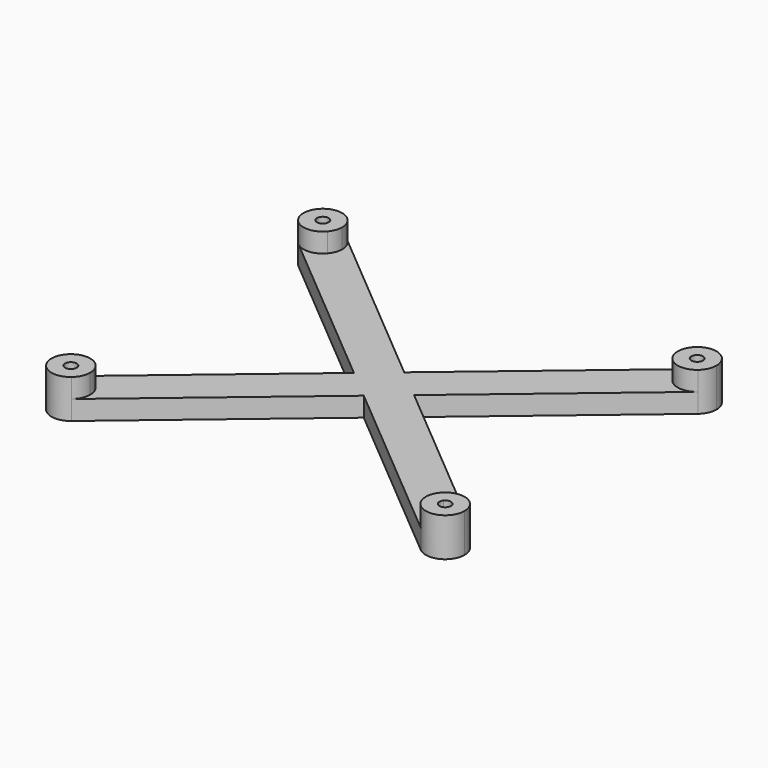
from build123d import *

# Parameters (mm, degrees)
F1_DEPTH = 3
F2_DEPTH = 6


with BuildPart() as f1:
    # F0 (on Top) → F1 (new body)
    with BuildSketch(Plane.XY):
        with BuildLine():
            ThreePointArc((-26, 24.4), (-26.1816083136, 23.3720562748), (-26.7044455348, 22.4685679672))
            Line((-26.7044455348, 22.4685679672), (-2.3298774814, 1.9603107085))
            Line((-2.3298774814, 1.9603107085), (0, 3.9206214169))
            Line((0, 3.9206214169), (-27.0685679672, 26.6955544652))
            ThreePointArc((-27.0685679672, 26.6955544652), (-26.2802301478, 25.6660378947), (-26, 24.4))
        make_face()
        with BuildLine():
            Line((-2.3298774814, 1.9603107085), (-26.7044455348, 22.4685679672))
            ThreePointArc((-26.7044455348, 22.4685679672), (-28.7425265589, 21.4110691833), (-30.9314320328, 22.1044455348))
            Line((-30.9314320328, 22.1044455348), (-4.6597549627, 0))
            Line((-4.6597549627, 0), (-2.3298774814, 1.9603107085))
        make_face()
        with BuildLine():
            Line((27.0685679672, 26.6955544652), (0, 3.9206214169))
            Line((0, 3.9206214169), (2.3298774814, 1.9603107085))
            Line((2.3298774814, 1.9603107085), (26.7044455348, 22.4685679672))
            ThreePointArc((26.7044455348, 22.4685679672), (26.0110691833, 24.6574734411), (27.0685679672, 26.6955544652))
        make_face()
        with BuildLine():
            Line((26.7044455348, 22.4685679672), (2.3298774814, 1.9603107085))
            Line((2.3298774814, 1.9603107085), (4.6597549627, 0))
            Line((4.6597549627, 0), (30.9314320328, 22.1044455348))
            ThreePointArc((30.9314320328, 22.1044455348), (28.7425265589, 21.4110691833), (26.7044455348, 22.4685679672))
        make_face()
        Polygon((0, 3.9206214169), (-2.3298774814, 1.9603107085), (0, 0), (2.3298774814, 1.9603107085), align=None)
        Polygon((0, 0), (-2.3298774814, 1.9603107085), (-4.6597549627, 0), (-2.3298774814, -1.9603107085), align=None)
        Polygon((2.3298774814, 1.9603107085), (0, 0), (2.3298774814, -1.9603107085), (4.6597549627, 0), align=None)
        Polygon((2.3298774814, -1.9603107085), (0, 0), (-2.3298774814, -1.9603107085), (0, -3.9206214169), align=None)
        with BuildLine():
            Line((-2.3298774814, -1.9603107085), (-4.6597549627, 0))
            Line((-4.6597549627, 0), (-30.9314320328, -22.1044455348))
            ThreePointArc((-30.9314320328, -22.1044455348), (-28.7425265589, -21.4110691833), (-26.7044455348, -22.4685679672))
            Line((-26.7044455348, -22.4685679672), (-2.3298774814, -1.9603107085))
        make_face()
        with BuildLine():
            Line((0, -3.9206214169), (-2.3298774814, -1.9603107085))
            Line((-2.3298774814, -1.9603107085), (-26.7044455348, -22.4685679672))
            ThreePointArc((-26.7044455348, -22.4685679672), (-26.1816083136, -23.3720562748), (-26, -24.4))
            ThreePointArc((-26, -24.4), (-26.2802301478, -25.6660378947), (-27.0685679672, -26.6955544652))
            Line((-27.0685679672, -26.6955544652), (0, -3.9206214169))
        make_face()
        with BuildLine():
            Line((4.6597549627, 0), (2.3298774814, -1.9603107085))
            Line((2.3298774814, -1.9603107085), (26.7044455348, -22.4685679672))
            ThreePointArc((26.7044455348, -22.4685679672), (28.7425265589, -21.4110691833), (30.9314320328, -22.1044455348))
            Line((30.9314320328, -22.1044455348), (4.6597549627, 0))
        make_face()
        with BuildLine():
            Line((26.7044455348, -22.4685679672), (2.3298774814, -1.9603107085))
            Line((2.3298774814, -1.9603107085), (0, -3.9206214169))
            Line((0, -3.9206214169), (27.0685679672, -26.6955544652))
            ThreePointArc((27.0685679672, -26.6955544652), (26.0110691833, -24.6574734411), (26.7044455348, -22.4685679672))
        make_face()
    extrude(amount=F1_DEPTH)

    # F0 (on Top) → F2 (join)
    with BuildSketch(Plane.XY):
        with BuildLine():
            ThreePointArc((-30.9314320328, 22.1044455348), (-28.7425265589, 21.4110691833), (-26.7044455348, 22.4685679672))
            ThreePointArc((-26.7044455348, 22.4685679672), (-26.1816083136, 23.3720562748), (-26, 24.4))
            ThreePointArc((-26, 24.4), (-26.2802301478, 25.6660378947), (-27.0685679672, 26.6955544652))
            ThreePointArc((-27.0685679672, 26.6955544652), (-31.2955544652, 26.3314320328), (-30.9314320328, 22.1044455348))
        make_face()
        with BuildLine():
            ThreePointArc((-28.1, 24.4), (-28.1544824941, 24.0916168824), (-28.3113336604, 23.8205703902))
            ThreePointArc((-28.3113336604, 23.8205703902), (-29.8455175059, 24.7083831176), (-28.1, 24.4))
        make_face(mode=Mode.SUBTRACT)
        with BuildLine():
            ThreePointArc((32, 24.4), (30.2660378947, 27.1197698522), (27.0685679672, 26.6955544652))
            ThreePointArc((27.0685679672, 26.6955544652), (26.0110691833, 24.6574734411), (26.7044455348, 22.4685679672))
            ThreePointArc((26.7044455348, 22.4685679672), (28.7425265589, 21.4110691833), (30.9314320328, 22.1044455348))
            ThreePointArc((30.9314320328, 22.1044455348), (31.7197698522, 23.1339621053), (32, 24.4))
        make_face()
        with BuildLine():
            ThreePointArc((29.9, 24.4), (29.3083831176, 23.5544824941), (28.3113336604, 23.8205703902))
            ThreePointArc((28.3113336604, 23.8205703902), (28.6916168824, 25.2455175059), (29.9, 24.4))
        make_face(mode=Mode.SUBTRACT)
        with BuildLine():
            ThreePointArc((30.9314320328, -22.1044455348), (28.7425265589, -21.4110691833), (26.7044455348, -22.4685679672))
            ThreePointArc((26.7044455348, -22.4685679672), (26.0110691833, -24.6574734411), (27.0685679672, -26.6955544652))
            ThreePointArc((27.0685679672, -26.6955544652), (30.2660378947, -27.1197698522), (32, -24.4))
            ThreePointArc((32, -24.4), (31.7197698522, -23.1339621053), (30.9314320328, -22.1044455348))
        make_face()
        with BuildLine():
            ThreePointArc((29.9, -24.4), (28.6916168824, -25.2455175059), (28.3113336604, -23.8205703902))
            ThreePointArc((28.3113336604, -23.8205703902), (29.3083831176, -23.5544824941), (29.9, -24.4))
        make_face(mode=Mode.SUBTRACT)
        with BuildLine():
            ThreePointArc((-26.7044455348, -22.4685679672), (-28.7425265589, -21.4110691833), (-30.9314320328, -22.1044455348))
            ThreePointArc((-30.9314320328, -22.1044455348), (-31.2955544652, -26.3314320328), (-27.0685679672, -26.6955544652))
            ThreePointArc((-27.0685679672, -26.6955544652), (-26.2802301478, -25.6660378947), (-26, -24.4))
            ThreePointArc((-26, -24.4), (-26.1816083136, -23.3720562748), (-26.7044455348, -22.4685679672))
        make_face()
        with BuildLine():
            ThreePointArc((-28.1, -24.4), (-29.8455175059, -24.7083831176), (-28.3113336604, -23.8205703902))
            ThreePointArc((-28.3113336604, -23.8205703902), (-28.1544824941, -24.0916168824), (-28.1, -24.4))
        make_face(mode=Mode.SUBTRACT)
    extrude(amount=F2_DEPTH)


solid = f1.part
